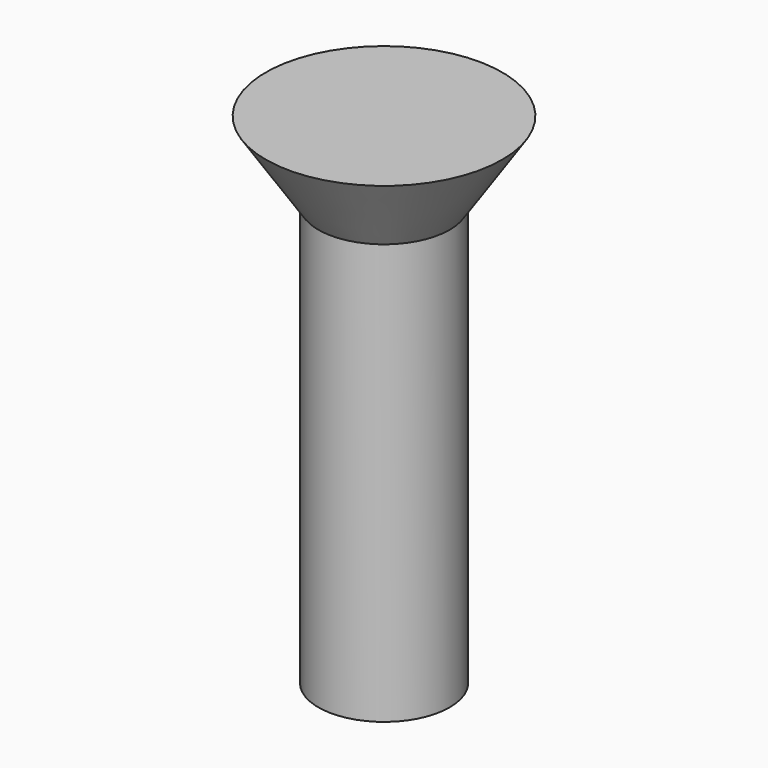
from build123d import *

# Parameters (mm, degrees)
CYLINDER011_R                   = 2.5
CYLINDER011_DEPTH               = 16
FUSION001018017_PLACEMENT_ANGLE = 180
CLONE013_PLACEMENT_ANGLE        = 180


with BuildPart() as cone003:
    # Cone003 → Cone003 (revolve)
    with BuildSketch(Plane(origin=(0, 0, -3), x_dir=(1, 0, 0), z_dir=(0, -1, 0))):
        Polygon((0, 0), (4.5, 0), (2.5, 3), (0, 3), align=None)
    revolve(axis=Axis((0, 0, -3), (0, 0, 1)))


with BuildPart() as obj1:
    # Cylinder011 → Cylinder011 (new body)
    with BuildSketch(Plane.XY):
        Circle(CYLINDER011_R)
    extrude(amount=CYLINDER011_DEPTH)

    # Fusion001018017: union Cone003
    add(cone003.part)


with BuildPart() as obj1_1:
    # Fusion001018017 placement: moved
    add(obj1.part.moved(Location((45, 15, 21))).rotate(Axis((45, 15, 21), (0, 1, 0)), FUSION001018017_PLACEMENT_ANGLE))


with BuildPart() as obj1_2:
    # Clone013 placement: moved
    add(obj1_1.part.moved(Location((90, 30, 0))).rotate(Axis((90, 30, 0), (0, 0, 1)), CLONE013_PLACEMENT_ANGLE))


with BuildPart() as obj1_3:
    # Clone026 placement: moved
    add(obj1_2.part.moved(Location((270, 0, 0))))


solid = obj1_3.part
